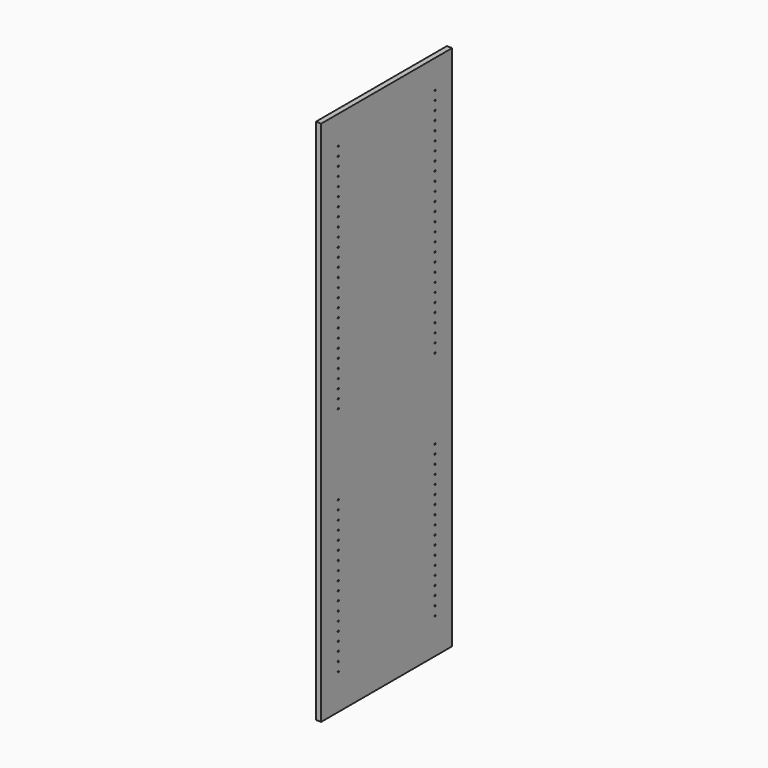
from build123d import *

# Parameters (mm, degrees)
F0_W     = 584.2
F0_H     = 1879.6
F1_DEPTH = 19.05
F3_D     = 5.0038
F3_DEPTH = 14.224
F3_TIP   = 1.5032931827


with BuildPart() as f1:
    # F0 (on Right) → F1 (new body)
    with BuildSketch(Plane.YZ):
        Rectangle(F0_W, F0_H)
    extrude(amount=F1_DEPTH)

    # F3
    with Locations(Plane.YZ.offset(19.05)):
        with Locations((-215.9, 838.2), (-215.9, 806.45), (-215.9, 774.7), (-215.9, 742.95), (-215.9, 711.2), (-215.9, 679.45), (-215.9, 647.7), (-215.9, 615.95), (-215.9, 584.2), (-215.9, 552.45), (-215.9, 520.7), (-215.9, 488.95), (-215.9, 457.2), (-215.9, 425.45), (-215.9, 393.7), (-215.9, 361.95), (-215.9, 330.2), (-215.9, 298.45), (-215.9, 266.7), (-215.9, 234.95), (-215.9, 203.2), (-215.9, 171.45), (-215.9, 139.7), (-215.9, 107.95), (-215.9, 76.2), (-215.9, 44.45), (-215.9, 12.7), (-215.9, -273.05), (-215.9, -304.8), (-215.9, -336.55), (-215.9, -368.3), (-215.9, -400.05), (-215.9, -431.8), (-215.9, -495.3), (-215.9, -463.55), (-215.9, -527.05), (-215.9, -558.8), (-215.9, -590.55), (-215.9, -622.3), (-215.9, -654.05), (-215.9, -685.8), (-215.9, -717.55), (-215.9, -749.3), (-215.9, -781.05), (-215.9, -812.8), (215.9, -812.8), (215.9, -781.05), (215.9, -749.3), (215.9, -717.55), (215.9, -685.8), (215.9, -654.05), (215.9, -622.3), (215.9, -590.55), (215.9, -558.8), (215.9, -527.05), (215.9, -495.3), (215.9, -463.55), (215.9, -431.8), (215.9, -400.05), (215.9, -368.3), (215.9, -336.55), (215.9, -304.8), (215.9, -273.05), (215.9, 12.7), (215.9, 44.45), (215.9, 76.2), (215.9, 107.95), (215.9, 139.7), (215.9, 171.45), (215.9, 203.2), (215.9, 266.7), (215.9, 234.95), (215.9, 298.45), (215.9, 330.2), (215.9, 361.95), (215.9, 457.2), (215.9, 425.45), (215.9, 393.7), (215.9, 488.95), (215.9, 520.7), (215.9, 552.45), (215.9, 615.95), (215.9, 584.2), (215.9, 647.7), (215.9, 679.45), (215.9, 711.2), (215.9, 742.95), (215.9, 774.7), (215.9, 806.45), (215.9, 838.2)):
            Hole(F3_D / 2, depth=F3_DEPTH)
            with Locations((0, 0, -(F3_DEPTH + F3_TIP / 2))):  # 118° drill point
                Cone(0, F3_D / 2, F3_TIP, mode=Mode.SUBTRACT)


solid = f1.part
